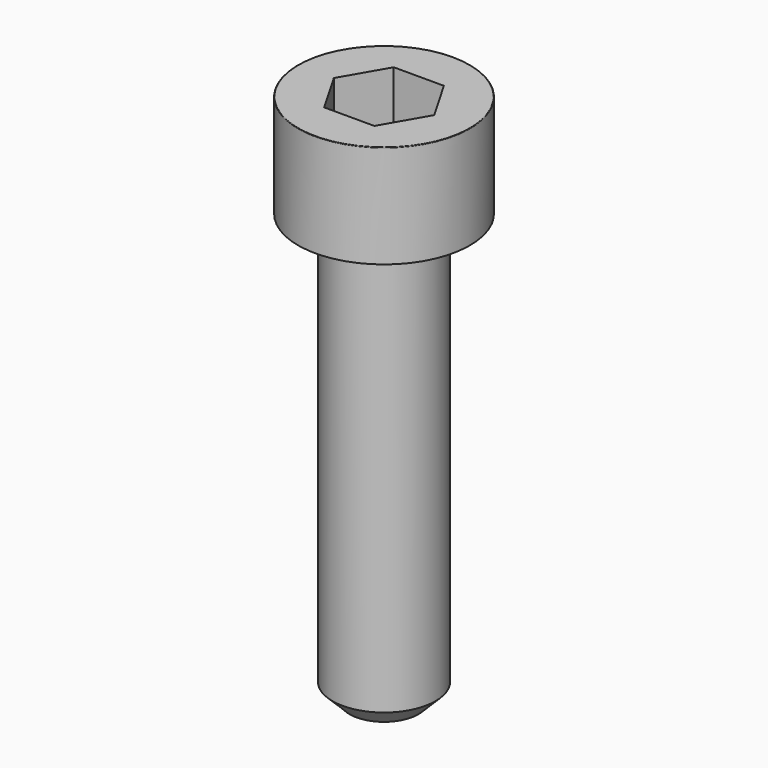
from build123d import *

# Parameters (mm, degrees)
POCKET_DEPTH = 5.06


with BuildPart() as part:
    # Sketch → Revolve (revolve)
    with BuildSketch(Plane.YZ):
        with BuildLine():
            Line((2.999, 0), (5, 0))
            Line((5, 0), (5, 5.97229))
            ThreePointArc((5, 5.97229), (4.991884, 5.991884), (4.97229, 6))
            Line((4.97229, 6), (0, 6))
            Line((0, -25), (0, 6))
            Line((2, -25), (0, -25))
            Line((3, -24), (2, -25))
            Line((3, -1), (3, -24))
            Line((2.999, 0), (3, -1))
        make_face()
    revolve(axis=Axis((0, 0, 0), (0, 0, 1)))

    # Sketch001 → Pocket (cut)
    with BuildSketch(Plane.XY.offset(6)):
        Polygon((2.921392, 0), (1.460696, 2.53), (-1.460696, 2.53), (-2.921392, 0), (-1.460696, -2.53), (1.460696, -2.53), align=None)
    extrude(amount=-POCKET_DEPTH, mode=Mode.SUBTRACT)


solid = part.part
